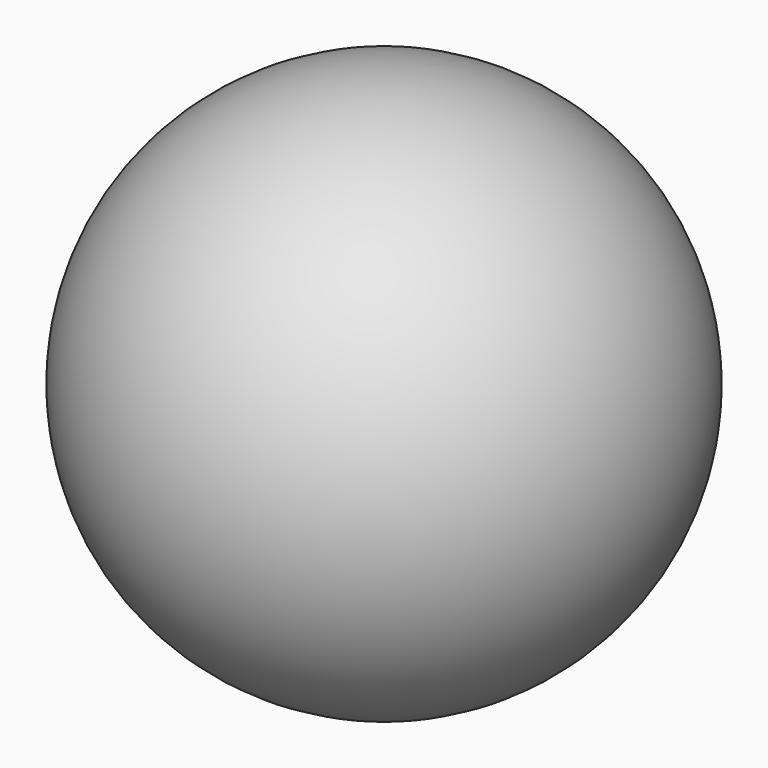
from build123d import *


with BuildPart() as f1:
    # F0 (on Right) → F1 (revolve)
    with BuildSketch(Plane.YZ):
        with BuildLine():
            Line((0, 0), (0, -5.5))
            ThreePointArc((0, -5.5), (5.5, 0), (0, 5.5))
            Line((0, 5.5), (0, 0))
        make_face()
    revolve(axis=Axis((0, 0, 2.75), (0, 0, 1)))


solid = f1.part
